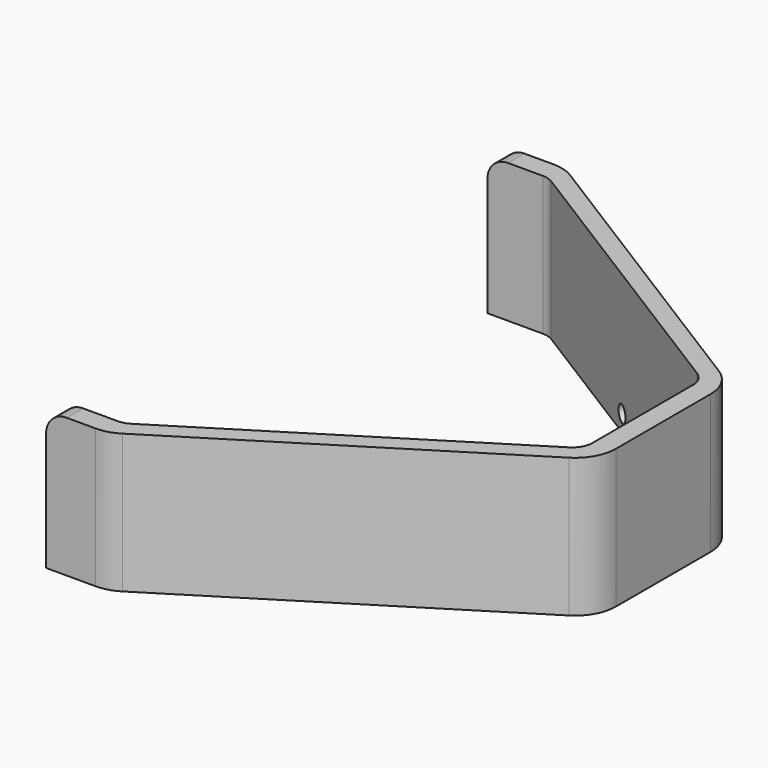
from build123d import *

# Parameters (mm, degrees)
PAD003_DEPTH    = 34
FILLET001_R     = 5
FILLET002_R     = 10
FILLET003_R     = 5
SKETCH013_R     = 2
POCKET005_DEPTH = 5


with BuildPart() as part:
    # Sketch009 (on XY_Plane001 of Origin002) → Pad003 (new body)
    with BuildSketch(Plane.XY.offset(1)):
        Polygon((0, 20), (0, -20), (-80, -70), (-95, -70), (-95, -65), (-80, -65), (-5, -18.125), (-5, 18.125), (-80, 65), (-95, 65), (-95, 70), (-80, 70), align=None)
    extrude(amount=PAD003_DEPTH)

    # Fillet001
    fillet001_edges = [part.edges().sort_by_distance(p)[0] for p in [
        (-95, -67.5, 35),
        (-95, 67.5, 35),
    ]]
    fillet(fillet001_edges, radius=FILLET001_R)

    # Fillet002
    fillet002_edges = [part.edges().sort_by_distance(p)[0] for p in [
        (-80, -70, 18),
        (0, -20, 18),
        (0, 20, 18),
        (-80, 70, 18),
    ]]
    fillet(fillet002_edges, radius=FILLET002_R)

    # Fillet003
    fillet003_edges = [part.edges().sort_by_distance(p)[0] for p in [
        (-80, -65, 18),
        (-5, -18.125, 18),
        (-80, 65, 18),
        (-5, 18.125, 18),
    ]]
    fillet(fillet003_edges, radius=FILLET003_R)

    # Sketch013 (on Face10 of Fillet003) → Pocket005 (cut)
    with BuildSketch(Plane(origin=(8.9887640449, 14.3820224719, 0), x_dir=(-0.847998304, 0.52999894, 0), z_dir=(0.52999894, 0.847998304, 0))):
        with Locations((60, 5)):
            Circle(SKETCH013_R)
    extrude(amount=-POCKET005_DEPTH, mode=Mode.SUBTRACT)


solid = part.part
